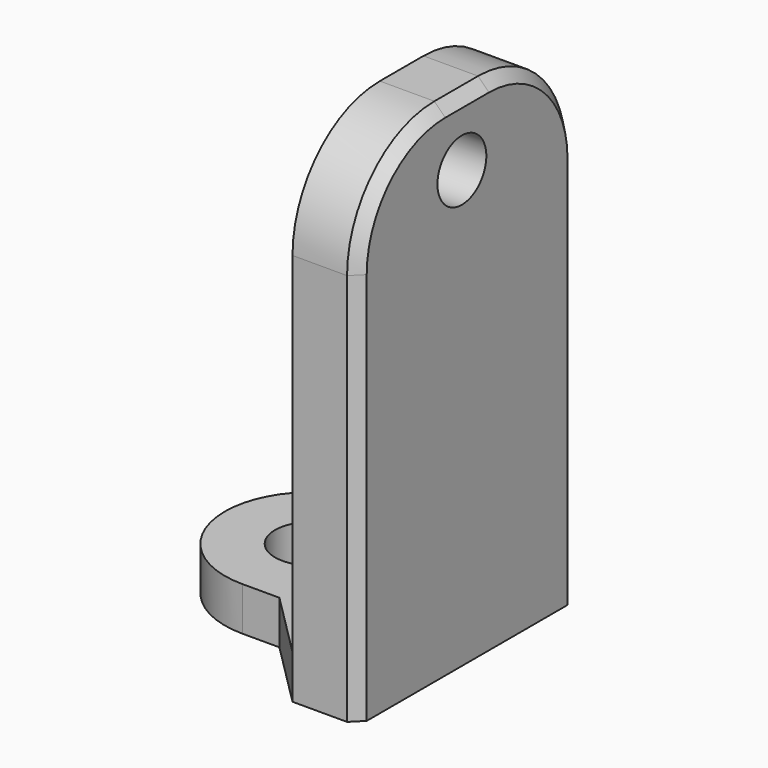
from build123d import *

# Parameters (mm, degrees)
SKETCH011_R     = 1.7
PAD007_DEPTH    = 2
SKETCH012_W     = 3
SKETCH012_H     = 12.5
PAD008_DEPTH    = 21
SKETCH013_R     = 1.4
POCKET004_DEPTH = 5
FILLET007_R     = 5
CHAMFER003_SIZE = 1.499
CHAMFER004_SIZE = 2.9999
CHAMFER005_SIZE = 0.5


with BuildPart() as part:
    # Sketch011 → Pad007 (new body)
    with BuildSketch(Plane.XY):
        with BuildLine():
            Line((0, -4), (4.7, -4))
            Line((4.7, -7), (4.7, -4))
            Line((7.7, -7), (4.7, -7))
            Line((7.7, -7), (7.7, 5.5))
            Line((4.7, 5.5), (7.7, 5.5))
            Line((4.7, 4), (4.7, 5.5))
            Line((4.7, 4), (0, 4))
            ThreePointArc((0, 4), (-4, 0), (0, -4))
        make_face()
        Circle(SKETCH011_R, mode=Mode.SUBTRACT)
    extrude(amount=PAD007_DEPTH)

    # Sketch012 (on Face11 of Pad007) → Pad008 (join)
    with BuildSketch(Plane.XY.offset(2)):
        with Locations((6.2, -0.75)):
            Rectangle(SKETCH012_W, SKETCH012_H)
    extrude(amount=PAD008_DEPTH)

    # Sketch013 (on Face7 of Pad008) → Pocket004 (cut)
    with BuildSketch(Plane(origin=(4.7, 0, 0), x_dir=(0, -1, 0), z_dir=(-1, 0, 0))):
        with Locations((1.05, 20)):
            Circle(SKETCH013_R)
    extrude(amount=-POCKET004_DEPTH, mode=Mode.SUBTRACT)

    # Fillet007
    fillet007_edges = [part.edges().sort_by_distance(p)[0] for p in [
        (6.2, 5.5, 23),
        (6.2, -7, 23),
    ]]
    fillet(fillet007_edges, radius=FILLET007_R)

    # Chamfer003
    chamfer003_edges = [part.edges().sort_by_distance(p)[0] for p in [
        (4.7, 4, 1),
    ]]
    chamfer(chamfer003_edges, length=CHAMFER003_SIZE)

    # Chamfer004
    chamfer004_edges = [part.edges().sort_by_distance(p)[0] for p in [
        (4.7, -4, 1),
    ]]
    chamfer(chamfer004_edges, length=CHAMFER004_SIZE)

    # Chamfer005
    chamfer005_edges = [part.edges().sort_by_distance(p)[0] for p in [
        (7.7, 5.5, 10),
    ]]
    chamfer(chamfer005_edges, length=CHAMFER005_SIZE)


with BuildPart() as part_1:
    # Body006 placement: moved
    add(part.part.moved(Location((33, -46, 3))))


solid = part_1.part
